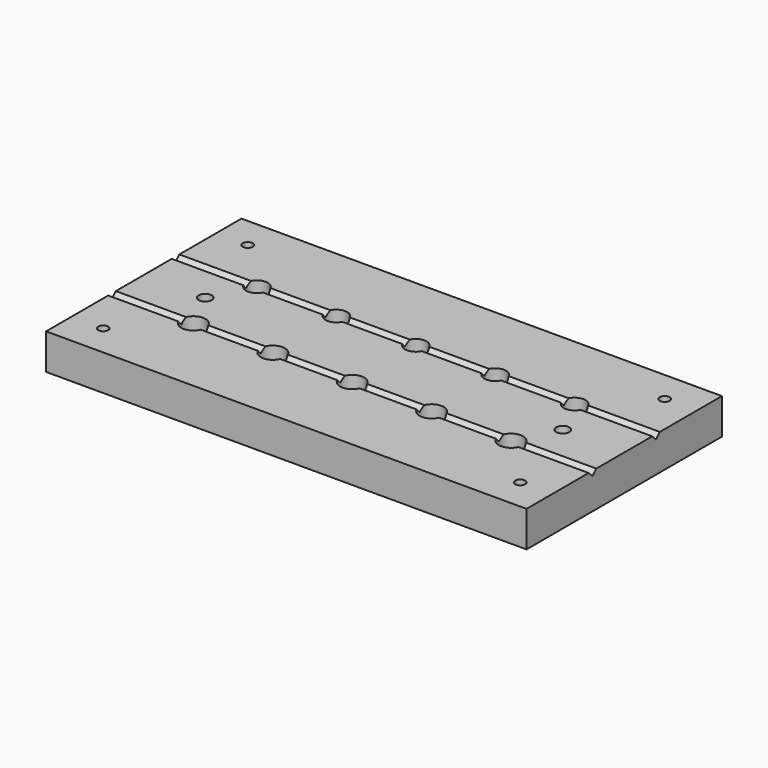
from build123d import *

# Parameters (mm, degrees)
F0_W     = 121
F0_H     = 61.5
F1_DEPTH = 9
F2_R     = 2.726864
F2_R_2   = 3.05
F3_DEPTH = 10
F4_R     = 1.25
F5_DEPTH = 10
F6_R     = 1.65
F7_DEPTH = 10
F9_DEPTH = 125


with BuildPart() as f1:
    # F0 (on Top) → F1 (new body)
    with BuildSketch(Plane.XY):
        with Locations((-44.752393, 5.581188)):
            Rectangle(F0_W, F0_H)
    extrude(amount=-F1_DEPTH)

    # F2 (on face) → F3 (cut)
    with BuildSketch(Plane.XY):
        with Locations((-84.752393, 15.581188)):
            Circle(F2_R)
        with Locations((-84.752393, -4.418812)):
            Circle(F2_R_2)
        with Locations((-64.752393, 15.581188)):
            Circle(F2_R)
        with Locations((-64.752393, -4.418812)):
            Circle(F2_R_2)
        with Locations((-44.752393, 15.581188)):
            Circle(F2_R)
        with Locations((-44.752393, -4.418812)):
            Circle(F2_R_2)
        with Locations((-24.752393, 15.581188)):
            Circle(F2_R)
        with Locations((-24.752393, -4.418812)):
            Circle(F2_R_2)
        with Locations((-4.752393, 15.581188)):
            Circle(F2_R)
        with Locations((-4.752393, -4.418812)):
            Circle(F2_R_2)
    extrude(amount=-F3_DEPTH, mode=Mode.SUBTRACT)

    # F4 (on face) → F5 (cut)
    with BuildSketch(Plane(origin=(0, 0, -9), x_dir=(1, 0, 0), z_dir=(0, 0, -1))):
        with Locations((-97.252393, 17.168812)):
            Circle(F4_R)
        with Locations((-97.252393, -28.331188)):
            Circle(F4_R)
        with Locations((7.747607, 17.168812)):
            Circle(F4_R)
        with Locations((7.747607, -28.331188)):
            Circle(F4_R)
    extrude(amount=-F5_DEPTH, mode=Mode.SUBTRACT)

    # F6 (on face) → F7 (cut)
    with BuildSketch(Plane(origin=(0, 0, -9), x_dir=(1, 0, 0), z_dir=(0, 0, -1))):
        with Locations((-89.752393, -5.581188)):
            Circle(F6_R)
        with Locations((0.247607, -5.581188)):
            Circle(F6_R)
    extrude(amount=-F7_DEPTH, mode=Mode.SUBTRACT)

    # F8 (on face) → F9 (cut)
    with BuildSketch(Plane.YZ.offset(15.747607)):
        Polygon((-3.218812, 0), (-5.618812, 0), (-4.418812, -1.2), align=None)
        Polygon((16.781188, 0), (14.381188, 0), (15.581188, -1.2), align=None)
    extrude(amount=-F9_DEPTH, mode=Mode.SUBTRACT)


solid = f1.part
